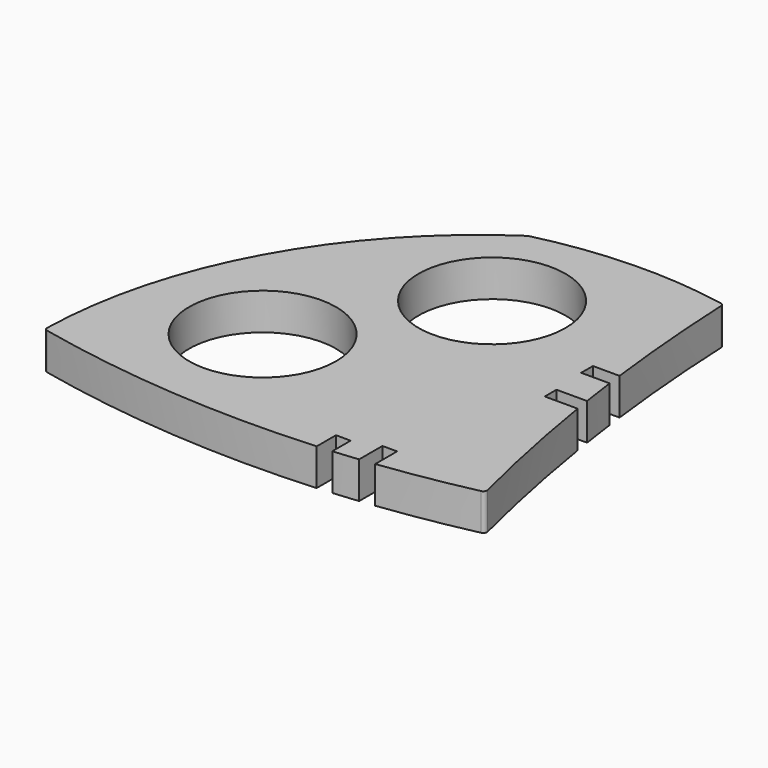
from build123d import *

# Parameters (mm, degrees)
F1_DEPTH = 5
F3_DEPTH = 25
F5_R     = 10
F6_DEPTH = 40.2
F7_R     = 0.5


with BuildPart() as f1:
    # F0 (on Top) → F1 (new body)
    with BuildSketch(Plane.XY):
        with BuildLine():
            ThreePointArc((-4.8529455066, -11.3703208044), (-9.7372457817, 13.1811290021), (-12.094983449, 38.1024281231))
            ThreePointArc((-12.094983449, 38.1024281231), (-25.1726018808, 39.2244660439), (-38.1818190217, 37.4799482524))
            ThreePointArc((-38.1818190217, 37.4799482524), (-57.5543992317, 16.3508865245), (-64.8529455066, -11.3703208044))
            ThreePointArc((-64.8529455066, -11.3703208044), (-34.8529455066, -14.6827008575), (-4.8529455066, -11.3703208044))
        make_face()
    extrude(amount=F1_DEPTH)

    # F2 (on face) → F3 (cut)
    with BuildSketch(Plane.XY.offset(5)):
        with BuildLine():
            Line((-10.445380618, 18.4103436768), (-14.0728279948, 18.4103436768))
            Line((-14.0728279948, 18.4103436768), (-14.0728279948, 16.4103436768))
            Line((-14.0728279948, 16.4103436768), (-10.1880609939, 16.4103436768))
            ThreePointArc((-10.1880609939, 16.4103436768), (-10.3187750863, 17.4100793735), (-10.445380618, 18.4103436768))
        make_face()
        with BuildLine():
            ThreePointArc((-9.2078046903, 9.7353123128), (-9.3665647814, 10.7349891474), (-9.521200175, 11.7353123128))
            Line((-9.521200175, 11.7353123128), (-13.6872706935, 11.7353123128))
            Line((-13.6872706935, 11.7353123128), (-13.6872706935, 9.7353123128))
            Line((-13.6872706935, 9.7353123128), (-9.2078046903, 9.7353123128))
        make_face()
        with BuildLine():
            Line((-25.4467576742, -11.0847614706), (-25.4467576742, -14.3606151844))
            ThreePointArc((-25.4467576742, -14.3606151844), (-24.4464809139, -14.2883663577), (-23.4467576742, -14.2088243302))
            Line((-23.4467576742, -14.2088243302), (-23.4467576742, -11.0847614706))
            Line((-23.4467576742, -11.0847614706), (-25.4467576742, -11.0847614706))
        make_face()
        with BuildLine():
            ThreePointArc((-20.0489610434, -13.8834992945), (-19.0485375374, -13.7714603365), (-18.0489610434, -13.6521005786))
            Line((-18.0489610434, -13.6521005786), (-18.0489610434, -9.9280904979))
            Line((-18.0489610434, -9.9280904979), (-20.0489610434, -9.9280904979))
            Line((-20.0489610434, -9.9280904979), (-20.0489610434, -13.8834992945))
        make_face()
    extrude(amount=-F3_DEPTH, mode=Mode.SUBTRACT)

    # F5 (on face) → F6 (cut)
    with BuildSketch(Plane.XY.offset(5)):
        with Locations((-46.07405141, 2.2169523872)):
            Circle(F5_R)
        with Locations((-31.8084470928, 23.4225839376)):
            Circle(F5_R)
    extrude(amount=-F6_DEPTH, mode=Mode.SUBTRACT)

    # F7
    f7_edges = [f1.edges().sort_by_distance(p)[0] for p in [
        (-4.852946, -11.370321, 2.5),
        (-64.852946, -11.370321, 2.5),
        (-12.094983, 38.102428, 2.5),
        (-38.181819, 37.479948, 2.5),
    ]]
    fillet(f7_edges, radius=F7_R)


solid = f1.part
